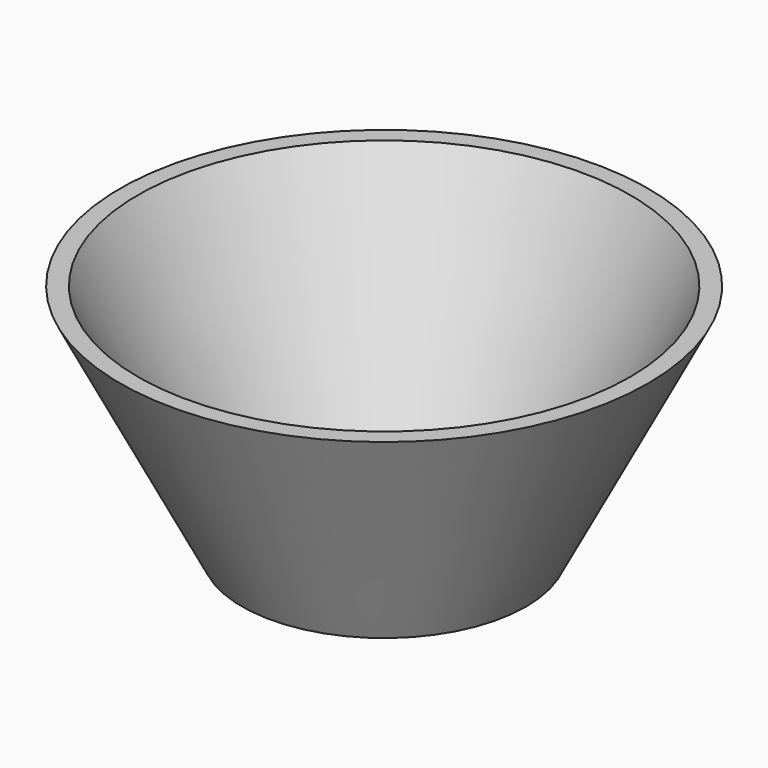
from build123d import *

# Parameters (mm, degrees)
F2_T = -3


with BuildPart() as f1:
    # F0 (on Front) → F1 (revolve)
    with BuildSketch(Plane.XZ):
        Polygon((-107.3599606752, 48.4800934792), (-157.5284153223, 48.4800934792), (-157.5284153223, 44.1385954618), (-157.5284153223, 3.6179174203), (-130.5146366358, 3.6179174203), align=None)
    revolve(axis=Axis((-157.5284153223, 0, 23.8782564411), (0, 0, -1)))

    # F2
    f2_openings = [f1.faces().sort_by_distance(p)[0] for p in [
        (-157.528415, 0, 48.480093),
    ]]
    offset(amount=F2_T, openings=f2_openings)


solid = f1.part
